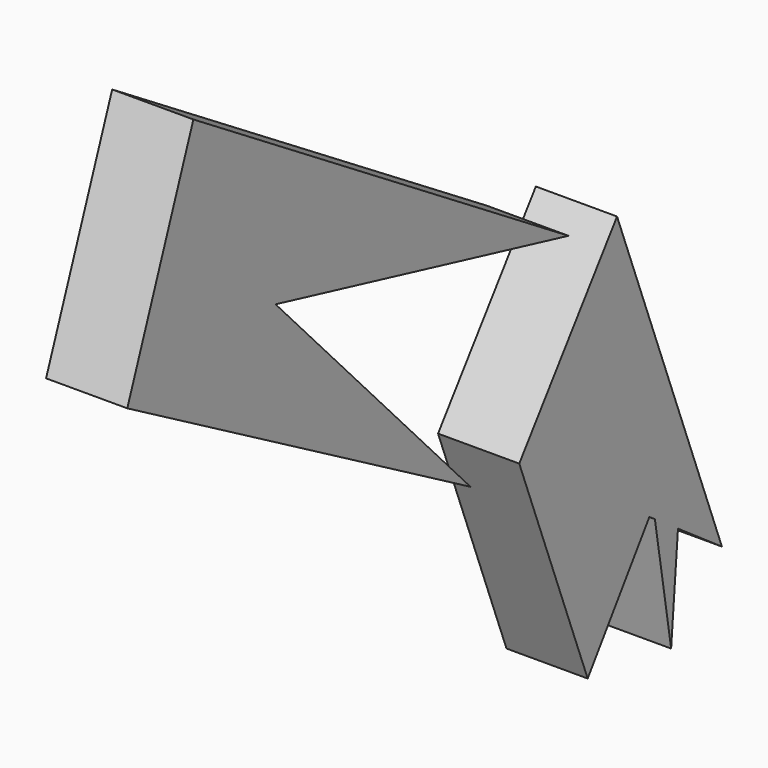
from build123d import *

# Parameters (mm, degrees)
F2_DEPTH = 25
F4_DEPTH = 25


with BuildPart() as f2:
    # F1 (on Right) → F2 (new body)
    with BuildSketch(Plane.YZ):
        Polygon((84.3063225366, -62.4753099153), (70.3367963433, 21.8116473407), (32.7032022178, -29.8633649945), (82.7815856739, -64.6690967818), align=None)
        Polygon((96.0342966417, -45.6011356272), (70.3367963433, 21.8116473407), (84.3063225366, -62.4753099153), align=None)
        Polygon((93.789951899, -72.3201872485), (96.0342966417, -45.6011356272), (84.3063225366, -62.4753099153), (84.9157545944, -66.1523976775), align=None)
        Polygon((110.6995418668, -84.0727761388), (96.0342966417, -45.6011356272), (93.789951899, -72.3201872485), align=None)
        Polygon((82.7815856739, -64.6690967818), (32.7032022178, -29.8633649945), (59.0403415263, -98.8279283047), align=None)
        Polygon((84.9157545944, -66.1523976775), (84.3063225366, -62.4753099153), (82.7815856739, -64.6690967818), align=None)
        Polygon((91.1489650607, -103.7612855434), (93.789951899, -72.3201872485), (84.9157545944, -66.1523976775), align=None)
    extrude(amount=F2_DEPTH)


with BuildPart() as f4:
    # F3 (on face) → F4 (new body)
    with BuildSketch(Plane.YZ):
        Polygon((-61.0697194934, 51.4242649078), (51.6385920346, 24.1785142571), (-92.7059203386, 114.3841221929), align=None)
        Polygon((-61.0697194934, 51.4242649078), (-92.7059203386, 114.3841221929), (-118.1409657001, 46.4277118444), align=None)
        Polygon((13.96596618, -28.5461302847), (-61.0697194934, 51.4242649078), (-118.1409657001, 46.4277118444), align=None)
    extrude(amount=F4_DEPTH)


solid = Compound([f2.part, f4.part])
